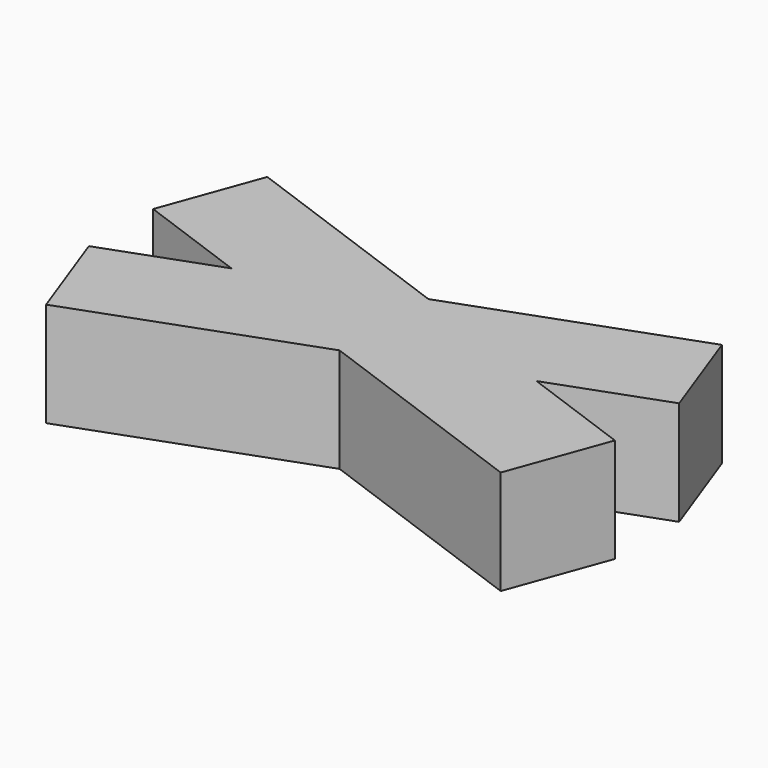
from build123d import *

# Parameters (mm, degrees)
BOX001_W               = 10
BOX001_H               = 2
BOX001_DEPTH           = 2
BOX001_PLACEMENT_ANGLE = 340
BOX_W                  = 10
BOX_H                  = 2
BOX_DEPTH              = 2
BOX_PLACEMENT_ANGLE    = 20


with BuildPart() as cube001:
    # Box001 → Box001 (new body)
    with BuildSketch(Plane.XY):
        with Locations((5, 1)):
            Rectangle(BOX001_W, BOX001_H)
    extrude(amount=BOX001_DEPTH)


with BuildPart() as cube001_1:
    # Box001 placement: moved
    add(cube001.part.moved(Location((-0.040483, 1.770408, 0))).rotate(Axis((-0.040483, 1.770408, 0), (0, 0, 1)), BOX001_PLACEMENT_ANGLE))


with BuildPart() as fusion:
    # Box → Box (new body)
    with BuildSketch(Plane.XY):
        with Locations((5, 1)):
            Rectangle(BOX_W, BOX_H)
    extrude(amount=BOX_DEPTH)


with BuildPart() as fusion_1:
    # Box placement: moved
    add(fusion.part.moved(Location((0.643557, -1.649793, 0))).rotate(Axis((0.643557, -1.649793, 0), (0, 0, 1)), BOX_PLACEMENT_ANGLE))

    # Fusion: union Cube001
    add(cube001_1.part)


solid = fusion_1.part
